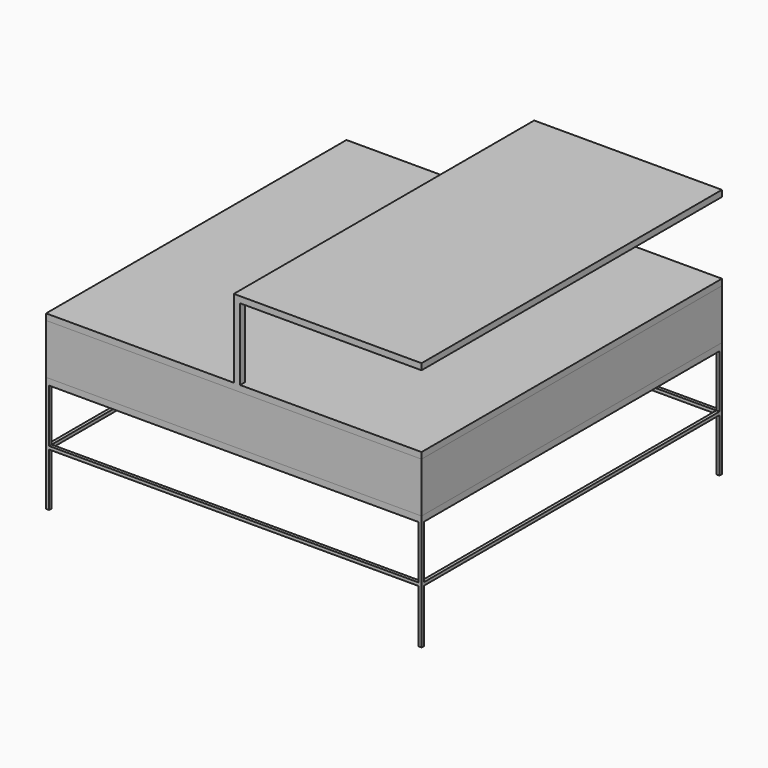
from build123d import *

# Parameters (mm, degrees)
F0_W      = 10
F0_H      = 10
F1_DEPTH  = 350
F3_W      = 1200
F3_H      = 1200
F3_W_2    = 1180
F3_H_2    = 1180
F4_DEPTH  = 5
F6_W      = 1200
F6_H      = 1200
F7_DEPTH  = 20
F8_DEPTH  = 160
F9_DEPTH  = 20
F10_W     = 20
F10_H     = 20
F11_DEPTH = 250
F13_W     = 1200
F13_H     = 20
F14_DEPTH = 600


with BuildPart() as f1:
    # F0 (on Top) → F1 (new body)
    with BuildSketch(Plane.XY):
        with Locations((-595, 595)):
            Rectangle(F0_W, F0_H)
    extrude(amount=F1_DEPTH)



with BuildPart() as f1b:
    # F0 (on Top) → F1, piece 2 (new body)
    with BuildSketch(Plane.XY):
        with Locations((595, 595)):
            Rectangle(F0_W, F0_H)
    extrude(amount=F1_DEPTH)


with BuildPart() as f1c:
    # F0 (on Top) → F1, piece 3 (new body)
    with BuildSketch(Plane.XY):
        with Locations((595, -595)):
            Rectangle(F0_W, F0_H)
    extrude(amount=F1_DEPTH)


with BuildPart() as f1d:
    # F0 (on Top) → F1, piece 4 (new body)
    with BuildSketch(Plane.XY):
        with Locations((-595, -595)):
            Rectangle(F0_W, F0_H)
    extrude(amount=F1_DEPTH)


with BuildPart() as f1_1:
    add(f1.part)

    add(f1b.part)  # F4 merges F1b

    add(f1c.part)  # F4 merges F1c

    add(f1d.part)  # F4 merges F1d
    # F3 (on offset) → F4 (join, symmetric)
    with BuildSketch(Plane.XY.offset(175)):
        Rectangle(F3_W, F3_H)
        Rectangle(F3_W_2, F3_H_2, mode=Mode.SUBTRACT)
    extrude(amount=F4_DEPTH, both=True)

    # F6 (on offset) → F7 (join)
    with BuildSketch(Plane.XY.offset(350)):
        Rectangle(F6_W, F6_H)
    extrude(amount=F7_DEPTH)


with BuildPart() as f8:
    # F8 (new): a face of the model
    f8_faces = [f1_1.part.faces().sort_by_distance(p)[0] for p in [
        (0, 0, 370),
    ]]
    extrude(f8_faces, amount=F8_DEPTH)


with BuildPart() as f9:
    # F9 (new): a face of the model
    f9_faces = [f8.part.faces().sort_by_distance(p)[0] for p in [
        (0, 0, 530),
    ]]
    extrude(f9_faces, amount=F9_DEPTH)

    # F10 (on face) → F11 (join)
    with BuildSketch(Plane.XY.offset(550)):
        with Locations((10, 590)):
            Rectangle(F10_W, F10_H)
        with Locations((10, -590)):
            Rectangle(F10_W, F10_H)
    extrude(amount=F11_DEPTH)

    # F13 (on offset) → F14 (join)
    with BuildSketch(Plane.YZ):
        with Locations((0, 790)):
            Rectangle(F13_W, F13_H)
    extrude(amount=F14_DEPTH)


solid = Compound([f1_1.part, f8.part, f9.part])
